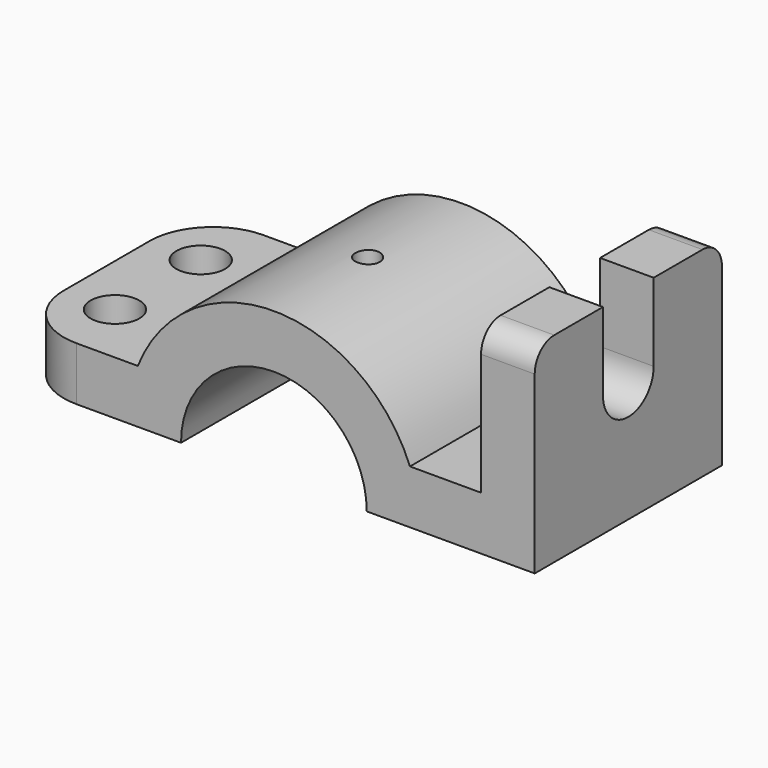
from build123d import *

# Parameters (mm, degrees)
F0_W     = 107
F0_H     = 41
F1_DEPTH = 24
F3_DEPTH = 48.001
F4_R     = 5
F5_R     = 13
F6_R     = 2.5
F6_R_2   = 5
F7_DEPTH = 41.001
F9_DEPTH = 11


with BuildPart() as f1:
    # F0 (on Front) → F1 (new body, symmetric)
    with BuildSketch(Plane.XZ):
        with Locations((0, 20.5)):
            Rectangle(F0_W, F0_H)
    extrude(amount=F1_DEPTH, both=True)

    # F2 (on face) → F3 (cut, through all)
    with BuildSketch(Plane.XZ.offset(24)):
        with BuildLine():
            ThreePointArc((-27.910571, 11), (0, 30), (27.910571, 11))
            Line((27.910571, 11), (42.5, 11))
            Line((42.5, 11), (42.5, 41))
            Line((42.5, 41), (-53.5, 41))
            Line((-53.5, 41), (-53.5, 11))
            Line((-53.5, 11), (-27.910571, 11))
        make_face()
        with BuildLine():
            Line((-19.05, 0), (19.05, 0))
            ThreePointArc((19.05, 0), (0, 19.05), (-19.05, 0))
        make_face()
    extrude(amount=-F3_DEPTH, mode=Mode.SUBTRACT)

    # F4
    f4_edges = [f1.edges().sort_by_distance(p)[0] for p in [
        (48, -24, 41),
        (48, 24, 41),
    ]]
    fillet(f4_edges, radius=F4_R)

    # F5
    f5_edges = [f1.edges().sort_by_distance(p)[0] for p in [
        (-53.5, -24, 5.5),
        (-53.5, 24, 5.5),
    ]]
    fillet(f5_edges, radius=F5_R)

    # F6 (on Top) → F7 (cut, through all)
    with BuildSketch(Plane.XY):
        Circle(F6_R)
        with Locations((-43, -11)):
            Circle(F6_R_2)
        with Locations((-43, 11)):
            Circle(F6_R_2)
    extrude(amount=F7_DEPTH, mode=Mode.SUBTRACT)

    # F8 (on face) → F9 (cut, through all)
    with BuildSketch(Plane.YZ.offset(53.5)):
        with BuildLine():
            Line((6.5, 41), (-6.5, 41))
            Line((-6.5, 41), (-6.5, 25))
            ThreePointArc((-6.5, 25), (0, 18.5), (6.5, 25))
            Line((6.5, 25), (6.5, 41))
        make_face()
    extrude(amount=-F9_DEPTH, mode=Mode.SUBTRACT)


solid = f1.part
